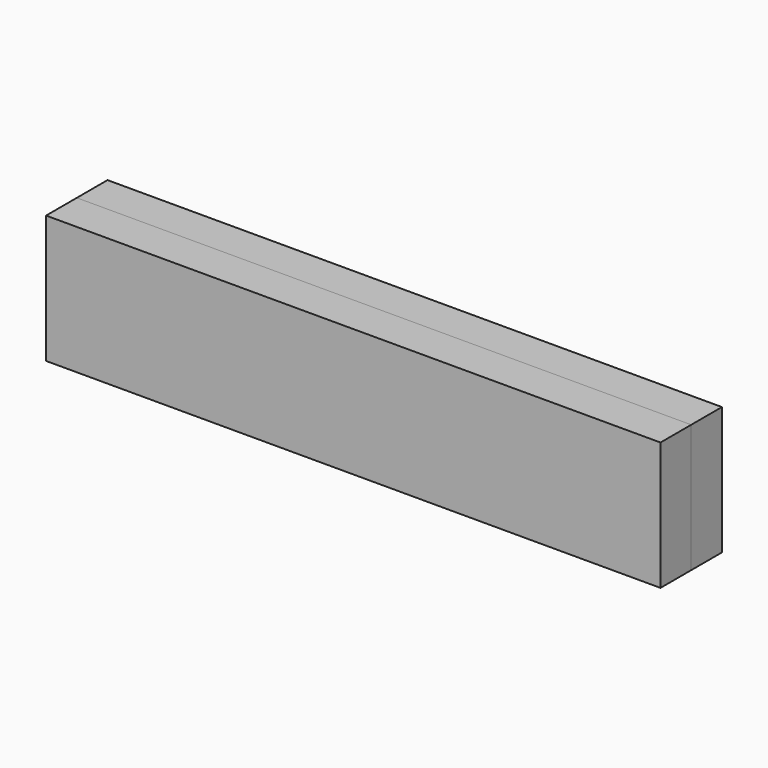
from build123d import *

# Parameters (mm, degrees)
F1_DEPTH = 25
F0_W     = 120
F0_H     = 7.5
F2_DEPTH = 25


with BuildPart() as f1:
    # F0 (on Top) → F1 (new body)
    with BuildSketch(Plane.XY):
        with BuildLine():
            Line((-55.5115031336, -1.2673012726), (-60.5115031336, -1.2673012726))
            Line((-60.5115031336, -1.2673012726), (-60.5115031336, -6.2673012726))
            ThreePointArc((-60.5115031336, -6.2673012726), (-59.0470370395, -2.7317673667), (-55.5115031336, -1.2673012726))
        make_face()
    extrude(amount=F1_DEPTH)


with BuildPart() as f1b:
    # F0 (on Top) → F1, piece 2 (new body)
    with BuildSketch(Plane.XY):
        with BuildLine():
            Line((-50.5115031336, -1.2673012726), (-55.5115031336, -1.2673012726))
            ThreePointArc((-55.5115031336, -1.2673012726), (-51.9759692277, -2.7317673667), (-50.5115031336, -6.2673012726))
            Line((-50.5115031336, -6.2673012726), (-50.5115031336, -1.2673012726))
        make_face()
    extrude(amount=F1_DEPTH)


with BuildPart() as f1c:
    # F0 (on Top) → F1, piece 3 (new body)
    with BuildSketch(Plane.XY):
        with BuildLine():
            ThreePointArc((-55.5115031336, -11.2673012726), (-59.0470370395, -9.8028351785), (-60.5115031336, -6.2673012726))
            Line((-60.5115031336, -6.2673012726), (-60.5115031336, -11.2673012726))
            Line((-60.5115031336, -11.2673012726), (-55.5115031336, -11.2673012726))
        make_face()
    extrude(amount=F1_DEPTH)


with BuildPart() as f1d:
    # F0 (on Top) → F1, piece 4 (new body)
    with BuildSketch(Plane.XY):
        with BuildLine():
            Line((-50.5115031336, -11.2673012726), (-50.5115031336, -6.2673012726))
            ThreePointArc((-50.5115031336, -6.2673012726), (-51.9759692277, -9.8028351785), (-55.5115031336, -11.2673012726))
            Line((-55.5115031336, -11.2673012726), (-50.5115031336, -11.2673012726))
        make_face()
    extrude(amount=F1_DEPTH)


with BuildPart() as f1e:
    # F0 (on Top) → F1, piece 5 (new body)
    with BuildSketch(Plane.XY):
        with Locations((19.0931870043, -10.3215911984)):
            Rectangle(F0_W, F0_H)
    extrude(amount=F1_DEPTH)


with BuildPart() as f2:
    # F0 (on Top) → F2 (new body)
    with BuildSketch(Plane.XY):
        with BuildLine():
            ThreePointArc((-50.5115031336, -6.2673012726), (-51.9759692277, -2.7317673667), (-55.5115031336, -1.2673012726))
            ThreePointArc((-55.5115031336, -1.2673012726), (-59.0470370395, -2.7317673667), (-60.5115031336, -6.2673012726))
            ThreePointArc((-60.5115031336, -6.2673012726), (-59.0470370395, -9.8028351785), (-55.5115031336, -11.2673012726))
            ThreePointArc((-55.5115031336, -11.2673012726), (-51.9759692277, -9.8028351785), (-50.5115031336, -6.2673012726))
        make_face()
    extrude(amount=F2_DEPTH)


with BuildPart() as f2b:
    # F0 (on Top) → F2, piece 2 (new body)
    with BuildSketch(Plane.XY):
        with Locations((19.0931870043, -2.8215911984)):
            Rectangle(F0_W, F0_H)
    extrude(amount=F2_DEPTH)


solid = Compound([f1e.part, f2b.part])
